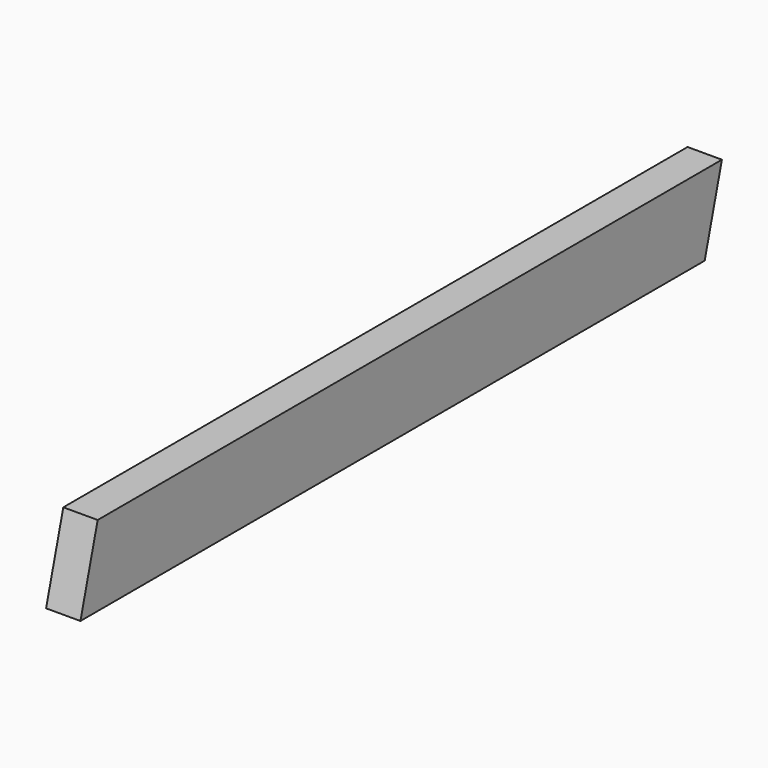
from build123d import *

# Parameters (mm, degrees)
F0_W     = 38.1
F0_H     = 88.9
F1_DEPTH = 889
F3_DEPTH = 25.4
F5_DEPTH = 25.4


with BuildPart() as f1:
    # F0 (on Front) → F1 (new body)
    with BuildSketch(Plane.XZ):
        Rectangle(F0_W, F0_H)
    extrude(amount=F1_DEPTH)

    # F2 (on Right) → F3 (cut, symmetric)
    with BuildSketch(Plane.YZ):
        Polygon((-889, -44.45), (-865.124, 44.45), (-889, 44.45), align=None)
    extrude(amount=F3_DEPTH, both=True, mode=Mode.SUBTRACT)

    # F4 (on Right) → F5 (cut, symmetric)
    with BuildSketch(Plane.YZ):
        Polygon((0, -44.45), (0, 44.45), (-23.876, -44.45), align=None)
    extrude(amount=F5_DEPTH, both=True, mode=Mode.SUBTRACT)


solid = f1.part
